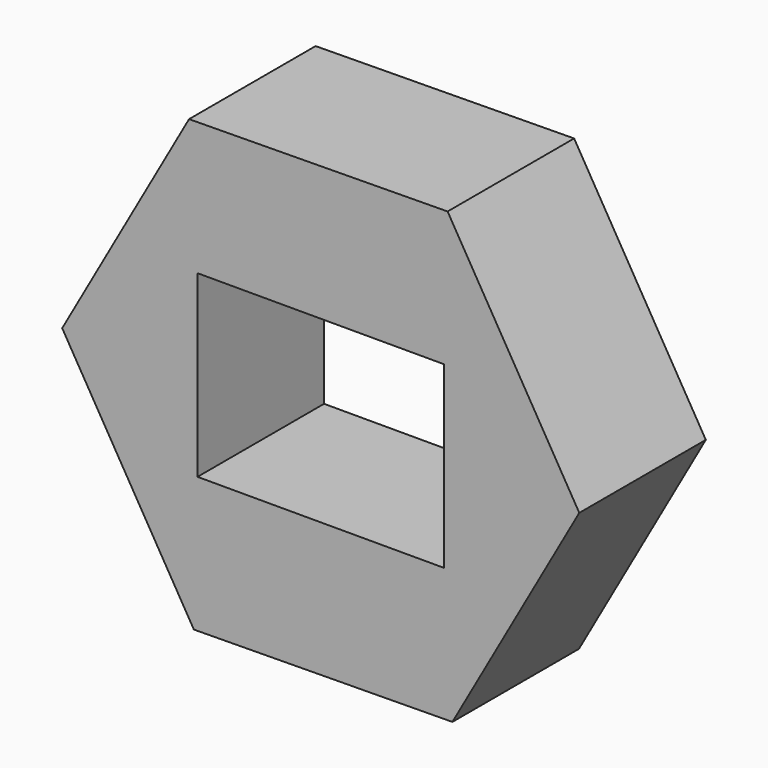
from build123d import *

# Parameters (mm, degrees)
F1_DEPTH = 25.4
F2_W     = 39.5732
F2_H     = 28.791848
F3_DEPTH = 121.412


with BuildPart() as f1:
    # F0 (on Front) → F1 (new body)
    with BuildSketch(Plane.XZ):
        Polygon((41.519459, 0.446306), (20.373218, 36.180059), (-21.146242, 35.733754), (-41.519459, -0.446306), (-20.373218, -36.180059), (21.146242, -35.733754), align=None)
    extrude(amount=F1_DEPTH)

    # F2 (on Front) → F3 (cut)
    with BuildSketch(Plane.XZ):
        Rectangle(F2_W, F2_H)
    extrude(amount=F3_DEPTH, mode=Mode.SUBTRACT)


solid = f1.part
